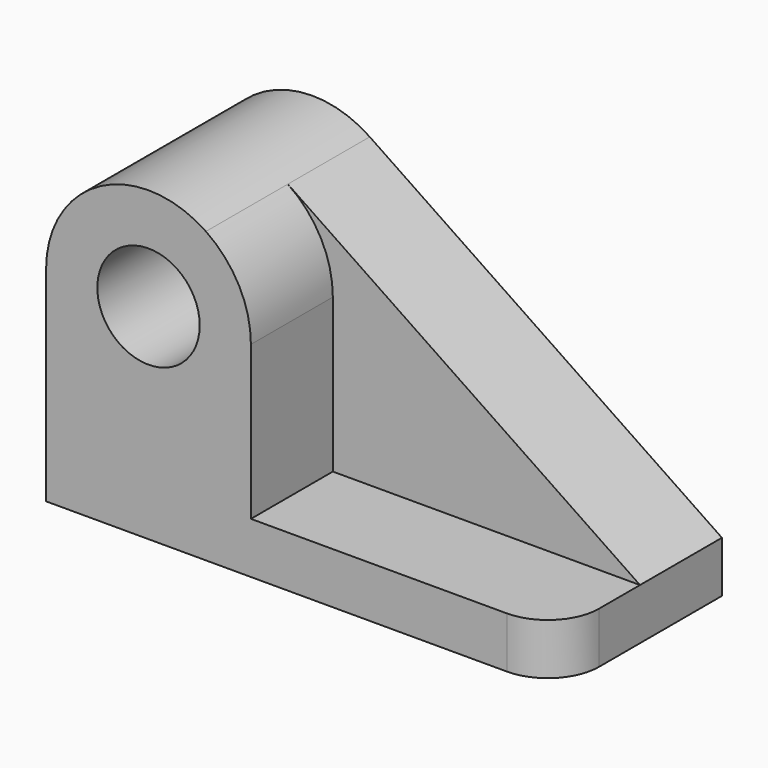
from build123d import *

# Parameters (mm, degrees)
F0_R     = 12.7
F1_DEPTH = 25.4
F2_DEPTH = 50.8
F3_R     = 12.7


with BuildPart() as f1:
    # F0 (on Front) → F1 (new body)
    with BuildSketch(Plane.XZ):
        with BuildLine():
            ThreePointArc((-16.217273, 50.799999), (-19.180414, 62.705768), (-27.378481, 71.833705))
            ThreePointArc((-27.378481, 71.833705), (-53.523042, 73.236859), (-67.017273, 50.799999))
            Line((-67.017273, 50.799999), (-67.023443, 12.7))
            Line((-67.023443, 12.7), (-67.0255, 0))
            Line((-67.0255, 0), (59.9745, 0))
            Line((59.9745, 0), (59.9745, 12.7))
            Line((59.9745, 12.7), (-16.217273, 12.7))
            Line((-16.217273, 12.7), (-16.217273, 50.799999))
        make_face()
        with Locations((-41.617273, 50.799999)):
            Circle(F0_R, mode=Mode.SUBTRACT)
        with BuildLine():
            Line((59.9745, 12.7), (-27.378481, 71.833705))
            ThreePointArc((-27.378481, 71.833705), (-19.180414, 62.705768), (-16.217273, 50.799999))
            Line((-16.217273, 50.799999), (-16.217273, 12.7))
            Line((-16.217273, 12.7), (59.9745, 12.7))
        make_face()
    extrude(amount=F1_DEPTH)

    # F0 (on Front) → F2 (join)
    with BuildSketch(Plane.XZ):
        with BuildLine():
            ThreePointArc((-16.217273, 50.799999), (-19.180414, 62.705768), (-27.378481, 71.833705))
            ThreePointArc((-27.378481, 71.833705), (-53.523042, 73.236859), (-67.017273, 50.799999))
            Line((-67.017273, 50.799999), (-67.023443, 12.7))
            Line((-67.023443, 12.7), (-67.0255, 0))
            Line((-67.0255, 0), (59.9745, 0))
            Line((59.9745, 0), (59.9745, 12.7))
            Line((59.9745, 12.7), (-16.217273, 12.7))
            Line((-16.217273, 12.7), (-16.217273, 50.799999))
        make_face()
        with Locations((-41.617273, 50.799999)):
            Circle(F0_R, mode=Mode.SUBTRACT)
    extrude(amount=F2_DEPTH)

    # F3
    f3_edges = [f1.edges().sort_by_distance(p)[0] for p in [
        (59.9745, -50.8, 6.35),
    ]]
    fillet(f3_edges, radius=F3_R)


solid = f1.part
